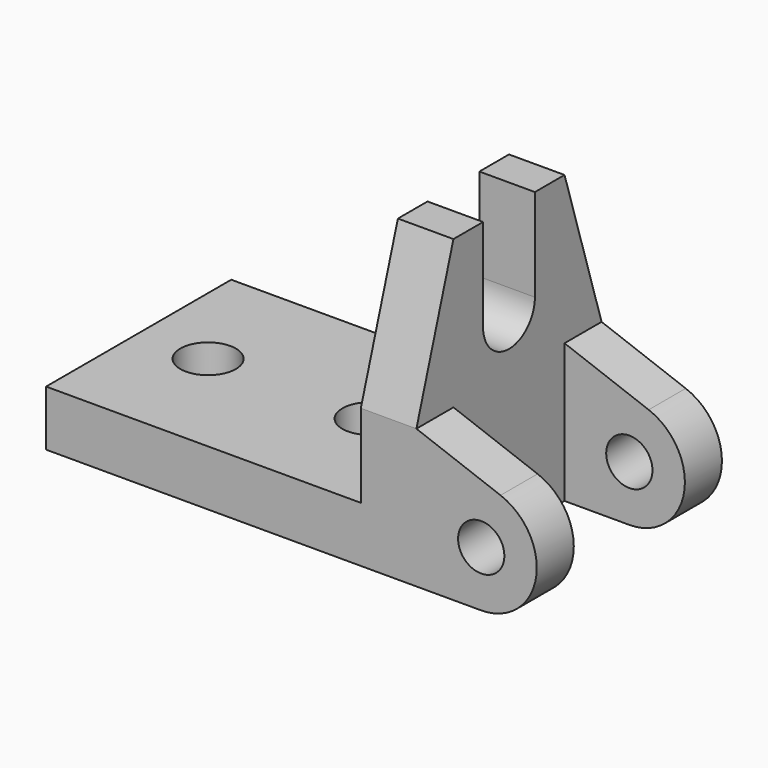
from build123d import *

# Parameters (mm, degrees)
F0_W      = 40
F0_H      = 25
F1_DEPTH  = 6
F2_W      = 6
F2_H      = 25
F3_DEPTH  = 9
F5_DEPTH  = 6
F6_R      = 2.5
F7_DEPTH  = 5
F8_R      = 2.5
F9_DEPTH  = 5
F10_R     = 3
F11_DEPTH = 6.001


with BuildPart() as f1:
    # F0 (on Top) → F1 (new body)
    with BuildSketch(Plane.XY):
        with Locations((-12.984823, 9.274423)):
            Rectangle(F0_W, F0_H)
    extrude(amount=F1_DEPTH)

    # F2 (on face) → F3 (join)
    with BuildSketch(Plane.XY.offset(6)):
        with Locations((4.015177, 9.274423)):
            Rectangle(F2_W, F2_H)
    extrude(amount=F3_DEPTH)

    # F4 (on face) → F5 (join)
    with BuildSketch(Plane.YZ.offset(7.015177)):
        with BuildLine():
            Line((12.774423, 31), (12.774423, 21))
            ThreePointArc((12.774423, 21), (9.274423, 17.5), (5.774423, 21))
            Line((5.774423, 21), (5.774423, 31))
            Line((5.774423, 31), (1.774423, 31))
            Line((1.774423, 31), (-3.225577, 15))
            Line((-3.225577, 15), (21.774423, 15))
            Line((21.774423, 15), (16.774423, 31))
            Line((16.774423, 31), (12.774423, 31))
        make_face()
    extrude(amount=-F5_DEPTH)

    # F6 (on face) → F7 (join)
    with BuildSketch(Plane.XZ.offset(3.225577)):
        with BuildLine():
            Line((7.015177, 15), (7.015177, 0))
            Line((7.015177, 0), (14.015177, 0))
            ThreePointArc((14.015177, 0), (19.920596, 4.938852), (16.104019, 11.624655))
            Line((16.104019, 11.624655), (7.015177, 15))
        make_face()
        with Locations((14.015177, 6)):
            Circle(F6_R, mode=Mode.SUBTRACT)
    extrude(amount=-F7_DEPTH)

    # F8 (on face) → F9 (join)
    with BuildSketch(Plane(origin=(0, 21.774423, 0), x_dir=(-1, 0, 0), z_dir=(0, 1, 0))):
        with BuildLine():
            Line((-7.015177, 0), (-7.015177, 15))
            Line((-7.015177, 15), (-16.104019, 11.624655))
            ThreePointArc((-16.104019, 11.624655), (-19.920596, 4.938852), (-14.015177, 0))
            Line((-14.015177, 0), (-7.015177, 0))
        make_face()
        with Locations((-14.015177, 6)):
            Circle(F8_R, mode=Mode.SUBTRACT)
    extrude(amount=-F9_DEPTH)

    # F10 (on face) → F11 (cut, through all)
    with BuildSketch(Plane.XY.offset(6)):
        with Locations((-7.984823, 9.274423)):
            Circle(F10_R)
        with Locations((-25.484823, 9.274423)):
            Circle(F10_R)
    extrude(amount=-F11_DEPTH, mode=Mode.SUBTRACT)


solid = f1.part
